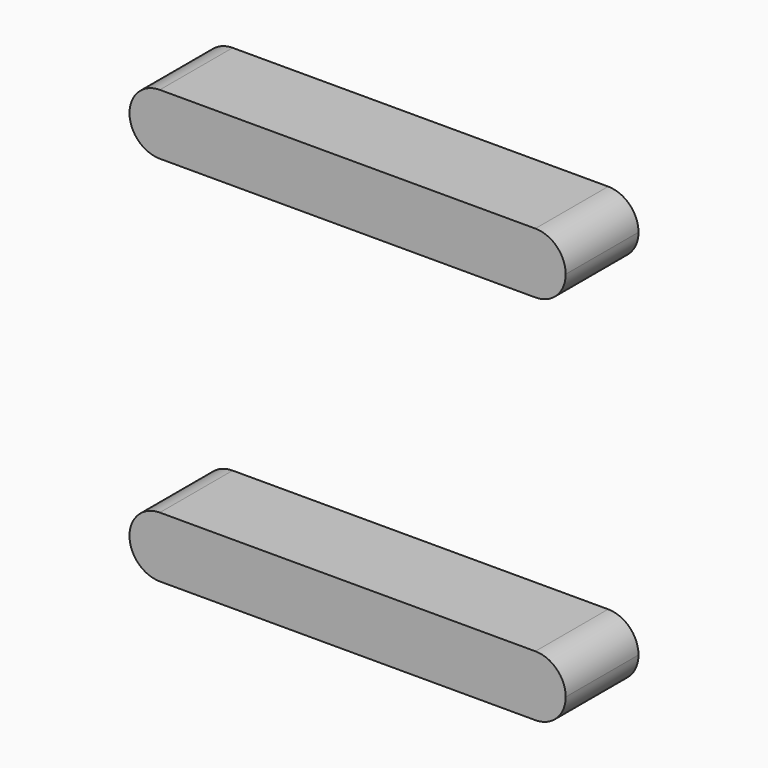
from build123d import *

# Parameters (mm, degrees)
F1_DEPTH = 30


with BuildPart() as f1:
    # F0 (on Front) → F1 (new body)
    with BuildSketch(Plane.XZ):
        with BuildLine():
            ThreePointArc((-61.903773, 71.346248), (-54.832705, 68.417316), (-51.903773, 61.346248))
            ThreePointArc((-51.903773, 61.346248), (-54.832705, 54.275181), (-61.903773, 51.346248))
            Line((-61.903773, 51.346248), (0, 51.346248))
            Line((0, 51.346248), (0, 71.346248))
            Line((0, 71.346248), (-61.903773, 71.346248))
        make_face()
        with BuildLine():
            Line((61.903773, 71.346248), (0, 71.346248))
            Line((0, 71.346248), (0, 51.346248))
            Line((0, 51.346248), (61.903773, 51.346248))
            ThreePointArc((61.903773, 51.346248), (51.903773, 61.346248), (61.903773, 71.346248))
        make_face()
        with BuildLine():
            ThreePointArc((-61.903773, 51.346248), (-54.832705, 54.275181), (-51.903773, 61.346248))
            ThreePointArc((-51.903773, 61.346248), (-54.832705, 68.417316), (-61.903773, 71.346248))
            ThreePointArc((-61.903773, 71.346248), (-71.903773, 61.346248), (-61.903773, 51.346248))
        make_face()
        with BuildLine():
            ThreePointArc((71.903773, 61.346248), (68.974841, 68.417316), (61.903773, 71.346248))
            ThreePointArc((61.903773, 71.346248), (51.903773, 61.346248), (61.903773, 51.346248))
            ThreePointArc((61.903773, 51.346248), (68.974841, 54.275181), (71.903773, 61.346248))
        make_face()
        with BuildLine():
            ThreePointArc((71.903773, -61.346248), (68.974841, -54.275181), (61.903773, -51.346248))
            ThreePointArc((61.903773, -51.346248), (51.903773, -61.346248), (61.903773, -71.346248))
            ThreePointArc((61.903773, -71.346248), (68.974841, -68.417316), (71.903773, -61.346248))
        make_face()
        with BuildLine():
            ThreePointArc((-61.903773, -71.346248), (-54.832705, -68.417316), (-51.903773, -61.346248))
            ThreePointArc((-51.903773, -61.346248), (-54.832705, -54.275181), (-61.903773, -51.346248))
            ThreePointArc((-61.903773, -51.346248), (-71.903773, -61.346248), (-61.903773, -71.346248))
        make_face()
        with BuildLine():
            ThreePointArc((-61.903773, -51.346248), (-54.832705, -54.275181), (-51.903773, -61.346248))
            ThreePointArc((-51.903773, -61.346248), (-54.832705, -68.417316), (-61.903773, -71.346248))
            Line((-61.903773, -71.346248), (0, -71.346248))
            Line((0, -71.346248), (61.903773, -71.346248))
            ThreePointArc((61.903773, -71.346248), (51.903773, -61.346248), (61.903773, -51.346248))
            Line((61.903773, -51.346248), (0, -51.346248))
            Line((0, -51.346248), (-61.903773, -51.346248))
        make_face()
    extrude(amount=F1_DEPTH)


solid = f1.part
